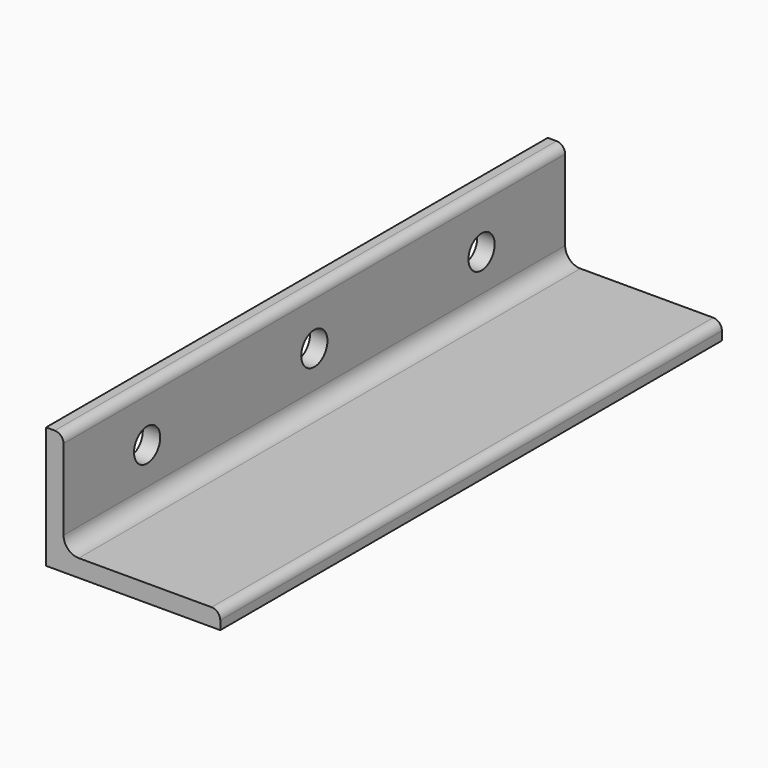
from build123d import *

# Parameters (mm, degrees)
F1_DEPTH = 228.6
F3_D     = 23.876


with BuildPart() as f1:
    # F0 (on Front) → F1 (new body, symmetric)
    with BuildSketch(Plane.XZ):
        with BuildLine():
            Line((6.3500000013, 88.9), (0, 88.9))
            Line((0, 88.9), (0, 0))
            Line((0, 0), (127, 0))
            Line((127, 0), (127, 6.35))
            ThreePointArc((127, 6.35), (125.1401280605, 10.8401280605), (120.65, 12.7))
            Line((120.65, 12.7), (23.8125000013, 12.7))
            ThreePointArc((23.8125000013, 12.7), (15.9547758954, 15.9547758941), (12.7000000013, 23.8125))
            Line((12.7000000013, 23.8125), (12.7000000013, 82.55))
            ThreePointArc((12.7000000013, 82.55), (10.8401280618, 87.0401280605), (6.3500000013, 88.9))
        make_face()
    extrude(amount=F1_DEPTH, both=True)

    # F3 (through all)
    with Locations(Plane(origin=(0, 0, 0), x_dir=(0, 1, 0), z_dir=(-1, 0, 0))):
        with Locations((-152.4, -50.8), (0, -50.8), (152.4, -50.8)):
            Hole(F3_D / 2)


solid = f1.part
